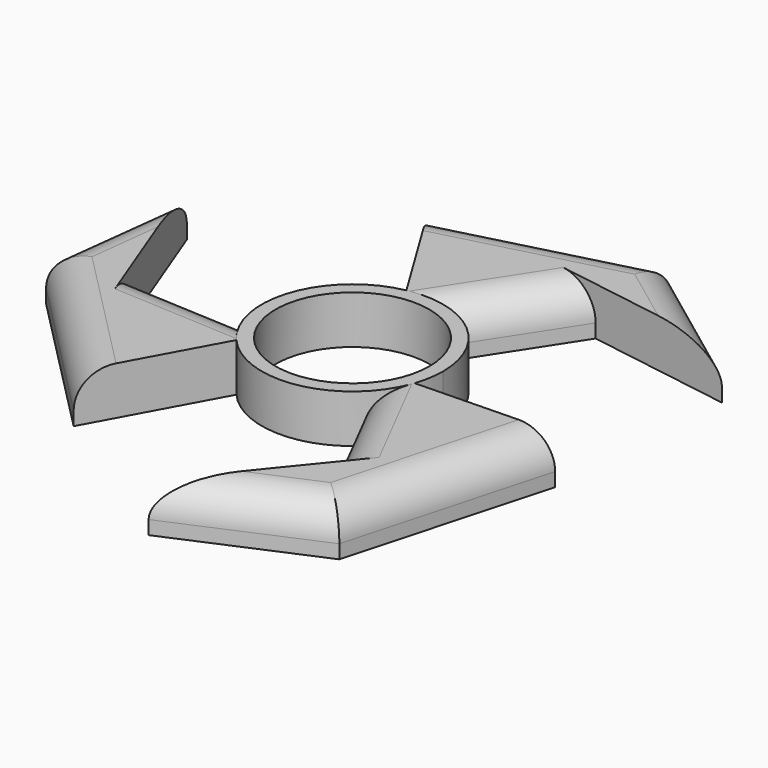
from build123d import *

# Parameters (mm, degrees)
F0_R     = 11.2
F1_DEPTH = 7
F2_R     = 5


with BuildPart() as f1:
    # F0 (on Top) → F1 (new body)
    with BuildSketch(Plane.XY):
        with BuildLine():
            ThreePointArc((12.480608, -4.298189), (13.01891, -2.178988), (13.2, 0))
            ThreePointArc((13.2, 0), (10.53026, 7.959499), (3.600965, 12.699333))
            ThreePointArc((3.600965, 12.699333), (0.556687, 13.188256), (-2.517964, 12.957618))
            ThreePointArc((-2.517964, 12.957618), (-11.143021, 7.076233), (-12.798427, -3.231139))
            ThreePointArc((-12.798427, -3.231139), (-11.699709, -6.112023), (-9.962644, -8.659429))
            ThreePointArc((-9.962644, -8.659429), (-0.556687, -13.188256), (9.197462, -9.468194))
            ThreePointArc((9.197462, -9.468194), (11.143021, -7.076233), (12.480608, -4.298189))
        make_face()
        Circle(F0_R, mode=Mode.SUBTRACT)
        with BuildLine():
            ThreePointArc((-2.517964, 12.957618), (0.556687, 13.188256), (3.600965, 12.699333))
            Line((3.600965, 12.699333), (13.284102, 27.637042))
            Line((13.284102, 27.637042), (34.355436, 24.277844))
            Line((34.355436, 24.277844), (16.337922, 37.714638))
            Line((16.337922, 37.714638), (-12.978721, 30.080097))
            Line((-12.978721, 30.080097), (-2.517964, 12.957618))
        make_face()
        with BuildLine():
            Line((32.539489, -3.800146), (12.480608, -4.298189))
            ThreePointArc((12.480608, -4.298189), (11.143021, -7.076233), (9.197462, -9.468194))
            Line((9.197462, -9.468194), (17.29233, -25.322891))
            Line((17.29233, -25.322891), (3.847511, -41.891602))
            Line((3.847511, -41.891602), (24.492874, -33.006374))
            Line((24.492874, -33.006374), (32.539489, -3.800146))
        make_face()
        with BuildLine():
            ThreePointArc((-9.962644, -8.659429), (-11.699709, -6.112023), (-12.798427, -3.231139))
            Line((-12.798427, -3.231139), (-30.576432, -2.314151))
            Line((-30.576432, -2.314151), (-38.202947, 17.613758))
            Line((-38.202947, 17.613758), (-40.830795, -4.708264))
            Line((-40.830795, -4.708264), (-19.560767, -26.279951))
            Line((-19.560767, -26.279951), (-9.962644, -8.659429))
        make_face()
    extrude(amount=F1_DEPTH)

    # F2
    f2_edges = [f1.edges().sort_by_distance(p)[0] for p in [
        (-39.516871, 6.452747, 7),
        (14.170193, -37.448988, 7),
        (25.346679, 30.996241, 7),
        (-21.687429, -2.772645, 7),
        (8.442534, 20.168187, 7),
        (1.6796, 33.897367, 7),
        (-30.195781, -15.494107, 7),
        (28.516181, -18.40326, 7),
        (13.244896, -17.395542, 7),
    ]]
    fillet(f2_edges, radius=F2_R)


solid = f1.part
